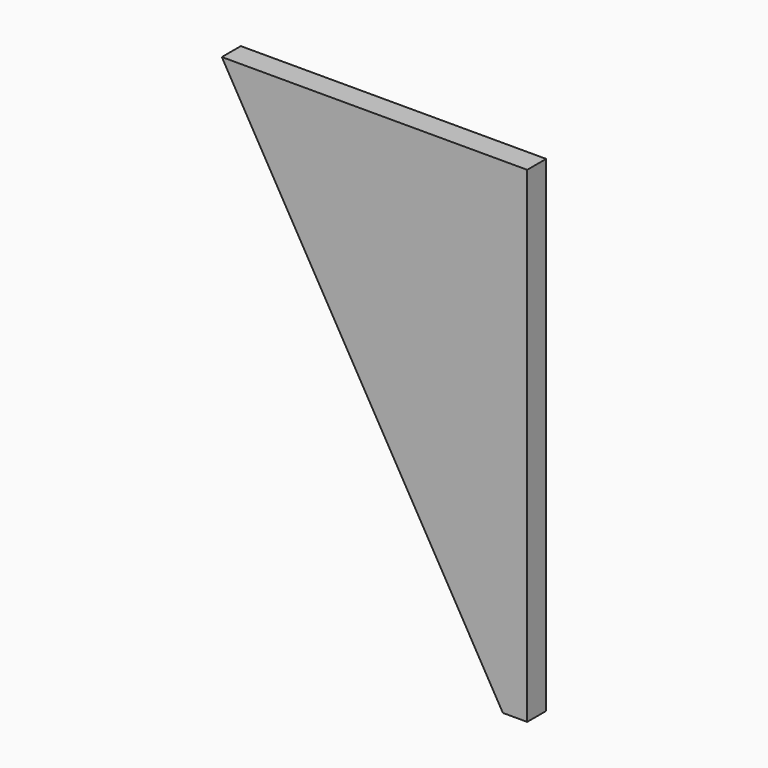
from build123d import *

# Parameters (mm, degrees)
F0_W     = 490
F0_H     = 780
F1_DEPTH = 19
F3_DEPTH = 38.001


with BuildPart() as f1:
    # F0 (on Front) → F1 (new body, symmetric)
    with BuildSketch(Plane.XZ):
        Rectangle(F0_W, F0_H)
    extrude(amount=F1_DEPTH, both=True)

    # F2 (on face) → F3 (cut, through all)
    with BuildSketch(Plane.XZ.offset(19)):
        Polygon((206, -390), (-245, 390), (-245, -390), align=None)
    extrude(amount=-F3_DEPTH, mode=Mode.SUBTRACT)


solid = f1.part
